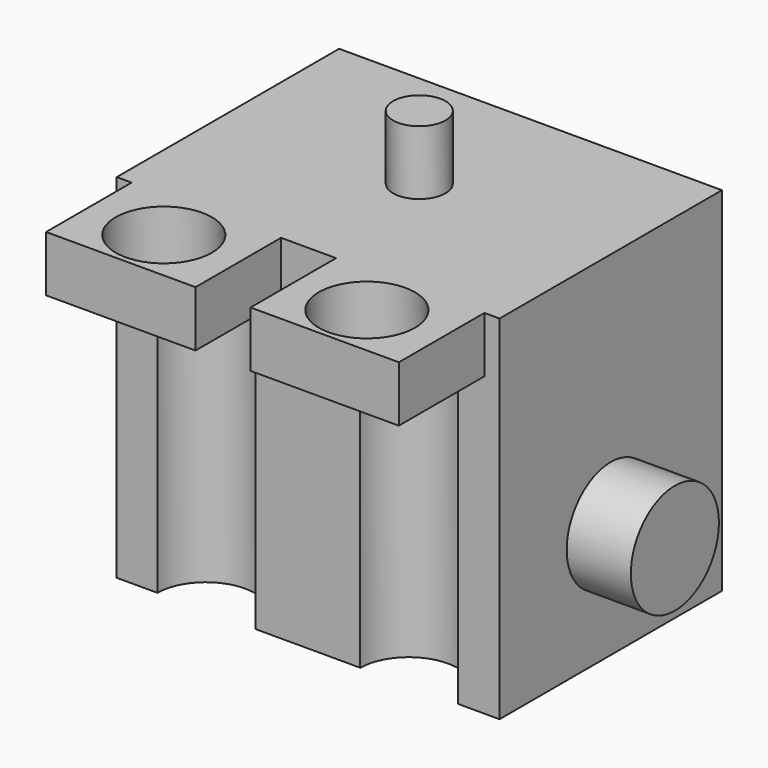
from build123d import *

# Parameters (mm, degrees)
SKETCH007_W          = 35.81
SKETCH007_H          = 26
PAD002_DEPTH         = 33
SKETCH008_R          = 2.45
PAD003_DEPTH         = 6
SKETCH009_W          = 13.978334
SKETCH009_H          = 5.221016
SKETCH009_W_2        = 13.87282
PAD004_DEPTH         = 10
SKETCH010_R          = 4.5
POCKET_DEPTH         = 11.222016
SKETCH016_W          = 22.6
SKETCH016_H          = 12.5
POCKET004_DEPTH      = 27.6
POCKET005_DEPTH      = 5.4
SKETCH018_W          = 4.8
SKETCH018_H          = 12
POCKET006_DEPTH      = 5
POCKET007_DEPTH      = 8.5
POCKET008_DEPTH      = 200
POCKET008_DEPTH_BACK = 200
POCKET036_DEPTH      = 5
SKETCH099_R          = 5.15
PAD045_DEPTH         = 6
SKETCH100_W          = 4.510635
SKETCH100_H          = 13.729386
POCKET046_DEPTH      = 34
POCKET047_DEPTH      = 9
POCKET048_DEPTH      = 27


with BuildPart() as part:
    # Sketch007 → Pad002 (new body)
    with BuildSketch(Plane.XY):
        with Locations((52.505, 52.5)):
            Rectangle(SKETCH007_W, SKETCH007_H)
    extrude(amount=PAD002_DEPTH)

    # Sketch008 (on Face6 of Pad002) → Pad003 (join)
    with BuildSketch(Plane.XY.offset(33)):
        with Locations((52.5, 52.5)):
            Circle(SKETCH008_R)
    extrude(amount=PAD003_DEPTH)

    # Sketch009 (on Face1 of Pad003) → Pad004 (join)
    with BuildSketch(Plane.XZ.offset(-39.5)):
        with Locations((42.979167, 30.389492)):
            Rectangle(SKETCH009_W, SKETCH009_H)
        with Locations((62.05359, 30.389492)):
            Rectangle(SKETCH009_W_2, SKETCH009_H)
    extrude(amount=PAD004_DEPTH)

    # Sketch010 (on Face6 of Pad004) → Pocket (cut, through all)
    with BuildSketch(Plane(origin=(0, 0, 27.778984), x_dir=(1, 0, 0), z_dir=(0, 0, -1))):
        with Locations((62, -34.5)):
            Circle(SKETCH010_R)
        with Locations((43, -34.5)):
            Circle(SKETCH010_R)
    extrude(amount=-POCKET_DEPTH, mode=Mode.SUBTRACT)

    # Sketch016 → Pocket004 (cut)
    with BuildSketch(Plane(origin=(0, 0, 0), x_dir=(1, 0, 0), z_dir=(0, 0, -1))):
        with Locations((50.3, -52.6)):
            Rectangle(SKETCH016_W, SKETCH016_H)
    extrude(amount=-POCKET004_DEPTH, mode=Mode.SUBTRACT)

    # Sketch015 (on Face3 of Pocket) → Pocket005 (cut)
    with BuildSketch(Plane(origin=(34.6, 0, 0), x_dir=(0, -1, 0), z_dir=(-1, 0, 0))):
        with BuildLine():
            Line((-58.5, 0), (-46.5, 0))
            Line((-46.5, 0), (-46.5, 10.9))
            ThreePointArc((-46.5, 10.9), (-47.4637930268, 14.1613830383), (-50.0455397742, 16.375))
            ThreePointArc((-50.0455397742, 16.375), (-52.5, 19.35), (-54.9544602258, 16.375))
            ThreePointArc((-54.9544602258, 16.375), (-57.5362069732, 14.1613830383), (-58.5, 10.9))
            Line((-58.5, 10.9), (-58.5, 0))
        make_face()
    extrude(amount=-POCKET005_DEPTH, mode=Mode.SUBTRACT)

    # Sketch018 → Pocket006 (cut)
    with BuildSketch(Plane(origin=(0, 0, 27.6), x_dir=(1, 0, 0), z_dir=(0, 0, -1))):
        with Locations((43.6, -52.5)):
            Rectangle(SKETCH018_W, SKETCH018_H)
    extrude(amount=-POCKET006_DEPTH, mode=Mode.SUBTRACT)

    # Sketch020 (on Face3 of Pocket006) → Pocket007 (cut)
    with BuildSketch(Plane(origin=(34.6, 0, 0), x_dir=(0, -1, 0), z_dir=(-1, 0, 0))):
        with BuildLine():
            ThreePointArc((-56.04, 32.6), (-58.53, 30.11), (-56.04, 27.62))
            Line((-56.04, 27.62), (-49.02, 27.62))
            ThreePointArc((-49.02, 27.62), (-46.53, 30.11), (-49.02, 32.6))
            Line((-56.04, 32.6), (-49.02, 32.6))
        make_face()
    extrude(amount=-POCKET007_DEPTH, mode=Mode.SUBTRACT)

    # Sketch021 (on Face9 of Pocket007) → Pocket008 (cut, two sides)
    with BuildSketch(Plane(origin=(0, 0, 27.778984), x_dir=(1, 0, 0), z_dir=(0, 0, -1))) as pocket008_sk:
        Polygon((-57.6610266203, 24.8205080757), (-59.6610266203, 25.9752086141), (-61.6610266203, 24.8205080757), (-61.6610266203, 22.5111069989), (-59.6610266203, 21.3564064606), (-57.6610266203, 22.5111069989), align=None)
        Polygon((-57.6610266203, 18.2017059222), (-59.6610266203, 19.3564064606), (-61.6610266203, 18.2017059222), (-61.6610266203, 15.8923048454), (-59.6610266203, 14.737604307), (-57.6610266203, 15.8923048454), align=None)
        Polygon((-57.6610266203, 11.5829037687), (-59.6610266203, 12.737604307), (-61.6610266203, 11.5829037687), (-61.6610266203, 9.2735026919), (-59.6610266203, 8.1188021535), (-57.6610266203, 9.2735026919), align=None)
        Polygon((-57.6610266203, 4.9641016151), (-59.6610266203, 6.1188021535), (-61.6610266203, 4.9641016151), (-61.6610266203, 2.6547005384), (-59.6610266203, 1.5), (-57.6610266203, 2.6547005384), align=None)
        Polygon((-45.6610266203, 24.8205080757), (-47.6610266203, 25.9752086141), (-49.6610266203, 24.8205080757), (-49.6610266203, 22.5111069989), (-47.6610266203, 21.3564064606), (-45.6610266203, 22.5111069989), align=None)
        Polygon((-45.6610266203, 18.2017059222), (-47.6610266203, 19.3564064606), (-49.6610266203, 18.2017059222), (-49.6610266203, 15.8923048454), (-47.6610266203, 14.737604307), (-45.6610266203, 15.8923048454), align=None)
        Polygon((-45.6610266203, 11.5829037687), (-47.6610266203, 12.737604307), (-49.6610266203, 11.5829037687), (-49.6610266203, 9.2735026919), (-47.6610266203, 8.1188021535), (-45.6610266203, 9.2735026919), align=None)
        Polygon((-45.6610266203, 4.9641016151), (-47.6610266203, 6.1188021535), (-49.6610266203, 4.9641016151), (-49.6610266203, 2.6547005384), (-47.6610266203, 1.5), (-45.6610266203, 2.6547005384), align=None)
        Polygon((-39.6610266203, 24.8205080757), (-41.6610266203, 25.9752086141), (-43.6610266203, 24.8205080757), (-43.6610266203, 22.5111069989), (-41.6610266203, 21.3564064606), (-39.6610266203, 22.5111069989), align=None)
        Polygon((-39.6610266203, 18.2017059222), (-41.6610266203, 19.3564064606), (-43.6610266203, 18.2017059222), (-43.6610266203, 15.8923048454), (-41.6610266203, 14.737604307), (-39.6610266203, 15.8923048454), align=None)
        Polygon((-39.6610266203, 11.5829037687), (-41.6610266203, 12.737604307), (-43.6610266203, 11.5829037687), (-43.6610266203, 9.2735026919), (-41.6610266203, 8.1188021535), (-39.6610266203, 9.2735026919), align=None)
        Polygon((-39.6610266203, 4.9641016151), (-41.6610266203, 6.1188021535), (-43.6610266203, 4.9641016151), (-43.6610266203, 2.6547005384), (-41.6610266203, 1.5), (-39.6610266203, 2.6547005384), align=None)
        Polygon((-51.6610266203, 24.8205080757), (-53.6610266203, 25.9752086141), (-55.6610266203, 24.8205080757), (-55.6610266203, 22.5111069989), (-53.6610266203, 21.3564064606), (-51.6610266203, 22.5111069989), align=None)
        Polygon((-51.6610266203, 18.2017059222), (-53.6610266203, 19.3564064606), (-55.6610266203, 18.2017059222), (-55.6610266203, 15.8923048454), (-53.6610266203, 14.737604307), (-51.6610266203, 15.8923048454), align=None)
        Polygon((-51.6610266203, 11.5829037687), (-53.6610266203, 12.737604307), (-55.6610266203, 11.5829037687), (-55.6610266203, 9.2735026919), (-53.6610266203, 8.1188021535), (-51.6610266203, 9.2735026919), align=None)
        Polygon((-51.6610266203, 4.9641016151), (-53.6610266203, 6.1188021535), (-55.6610266203, 4.9641016151), (-55.6610266203, 2.6547005384), (-53.6610266203, 1.5), (-51.6610266203, 2.6547005384), align=None)
    extrude(amount=-POCKET008_DEPTH, mode=Mode.SUBTRACT)
    extrude(pocket008_sk.sketch, amount=POCKET008_DEPTH_BACK, mode=Mode.SUBTRACT)

    # CopySketch077 → Pocket036 (cut)
    with BuildSketch(Plane.XZ.offset(10)):
        with BuildLine():
            ThreePointArc((49.5809685833, -52.61365544), (52.5285478813, -63.912849758), (55.405181515, -52.5953856034))
            ThreePointArc((55.405181515, -52.5953856034), (52.4814034168, -48.8837389355), (49.5809685833, -52.61365544))
        make_face()
    extrude(amount=-POCKET036_DEPTH, mode=Mode.SUBTRACT)

    # Sketch099 (on Face11 of Pocket036) → Pad045 (join)
    with BuildSketch(Plane.YZ.offset(70.41)):
        with Locations((52.5, 10.752384)):
            Circle(SKETCH099_R)
    extrude(amount=PAD045_DEPTH)

    # Sketch100 (on Face44 of Pad045) → Pocket046 (cut)
    with BuildSketch(Plane(origin=(0, 0, 32.6), x_dir=(1, 0, 0), z_dir=(0, 0, -1))):
        with Locations((40.8446805, -52.688568)):
            Rectangle(SKETCH100_W, SKETCH100_H)
    extrude(amount=POCKET046_DEPTH, mode=Mode.SUBTRACT)

    # Sketch101 (on Face12 of Pocket046) → Pocket047 (cut)
    with BuildSketch(Plane(origin=(0, 65.5, 0), x_dir=(-1, 0, 0), z_dir=(0, 1, 0))):
        Polygon((-59.214752, 23.341819945), (-57.4827011924, 24.341819945), (-57.4827011924, 26.341819945), (-59.214752, 27.341819945), (-60.9468028076, 26.341819945), (-60.9468028076, 24.341819945), align=None)
        Polygon((-59.214752, 16.341819945), (-57.4827011924, 17.341819945), (-57.4827011924, 19.341819945), (-59.214752, 20.341819945), (-60.9468028076, 19.341819945), (-60.9468028076, 17.341819945), align=None)
        Polygon((-59.214752, 9.341819945), (-57.4827011924, 10.341819945), (-57.4827011924, 12.341819945), (-59.214752, 13.341819945), (-60.9468028076, 12.341819945), (-60.9468028076, 10.341819945), align=None)
        Polygon((-59.214752, 2.341819945), (-57.4827011924, 3.341819945), (-57.4827011924, 5.341819945), (-59.214752, 6.341819945), (-60.9468028076, 5.341819945), (-60.9468028076, 3.341819945), align=None)
        Polygon((-53.214752, 23.341819945), (-51.4827011924, 24.341819945), (-51.4827011924, 26.341819945), (-53.214752, 27.341819945), (-54.9468028076, 26.341819945), (-54.9468028076, 24.341819945), align=None)
        Polygon((-53.214752, 16.341819945), (-51.4827011924, 17.341819945), (-51.4827011924, 19.341819945), (-53.214752, 20.341819945), (-54.9468028076, 19.341819945), (-54.9468028076, 17.341819945), align=None)
        Polygon((-53.214752, 9.341819945), (-51.4827011924, 10.341819945), (-51.4827011924, 12.341819945), (-53.214752, 13.341819945), (-54.9468028076, 12.341819945), (-54.9468028076, 10.341819945), align=None)
        Polygon((-53.214752, 2.341819945), (-51.4827011924, 3.341819945), (-51.4827011924, 5.341819945), (-53.214752, 6.341819945), (-54.9468028076, 5.341819945), (-54.9468028076, 3.341819945), align=None)
        Polygon((-47.214752, 23.364838), (-45.4827011924, 24.364838), (-45.4827011924, 26.364838), (-47.214752, 27.364838), (-48.9468028076, 26.364838), (-48.9468028076, 24.364838), align=None)
        Polygon((-47.214752, 16.364838), (-45.4827011924, 17.364838), (-45.4827011924, 19.364838), (-47.214752, 20.364838), (-48.9468028076, 19.364838), (-48.9468028076, 17.364838), align=None)
        Polygon((-47.214752, 9.364838), (-45.4827011924, 10.364838), (-45.4827011924, 12.364838), (-47.214752, 13.364838), (-48.9468028076, 12.364838), (-48.9468028076, 10.364838), align=None)
        Polygon((-47.214752, 2.364838), (-45.4827011924, 3.364838), (-45.4827011924, 5.364838), (-47.214752, 6.364838), (-48.9468028076, 5.364838), (-48.9468028076, 3.364838), align=None)
        Polygon((-41.214752, 23.364838), (-39.4827011924, 24.364838), (-39.4827011924, 26.364838), (-41.214752, 27.364838), (-42.9468028076, 26.364838), (-42.9468028076, 24.364838), align=None)
        Polygon((-41.214752, 16.364838), (-39.4827011924, 17.364838), (-39.4827011924, 19.364838), (-41.214752, 20.364838), (-42.9468028076, 19.364838), (-42.9468028076, 17.364838), align=None)
        Polygon((-41.214752, 9.364838), (-39.4827011924, 10.364838), (-39.4827011924, 12.364838), (-41.214752, 13.364838), (-42.9468028076, 12.364838), (-42.9468028076, 10.364838), align=None)
        Polygon((-41.214752, 2.364838), (-39.4827011924, 3.364838), (-39.4827011924, 5.364838), (-41.214752, 6.364838), (-42.9468028076, 5.364838), (-42.9468028076, 3.364838), align=None)
    extrude(amount=-POCKET047_DEPTH, mode=Mode.SUBTRACT)

    # Sketch102 (on Face2 of Pocket047) → Pocket048 (cut)
    with BuildSketch(Plane(origin=(0, 0, 0), x_dir=(1, 0, 0), z_dir=(0, 0, -1))):
        with BuildLine():
            ThreePointArc((47.558878, -33.45), (42.978878, -28.87), (38.398878, -33.45))
            Line((38.398878, -33.45), (38.398878, -39.45))
            ThreePointArc((38.398878, -39.45), (42.978878, -44.03), (47.558878, -39.45))
            Line((47.558878, -33.45), (47.558878, -39.45))
        make_face()
        with BuildLine():
            ThreePointArc((66.5366215742, -33.45), (61.9566215742, -28.87), (57.3766215742, -33.45))
            Line((57.3766215742, -33.45), (57.3766215742, -39.45))
            ThreePointArc((57.3766215742, -39.45), (61.9566215742, -44.03), (66.5366215742, -39.45))
            Line((66.5366215742, -33.45), (66.5366215742, -39.45))
        make_face()
    extrude(amount=-POCKET048_DEPTH, mode=Mode.SUBTRACT)


with BuildPart() as part_1:
    # Body002 placement: moved
    add(part.part.moved(Location((0, 0, -55))))


solid = part_1.part
